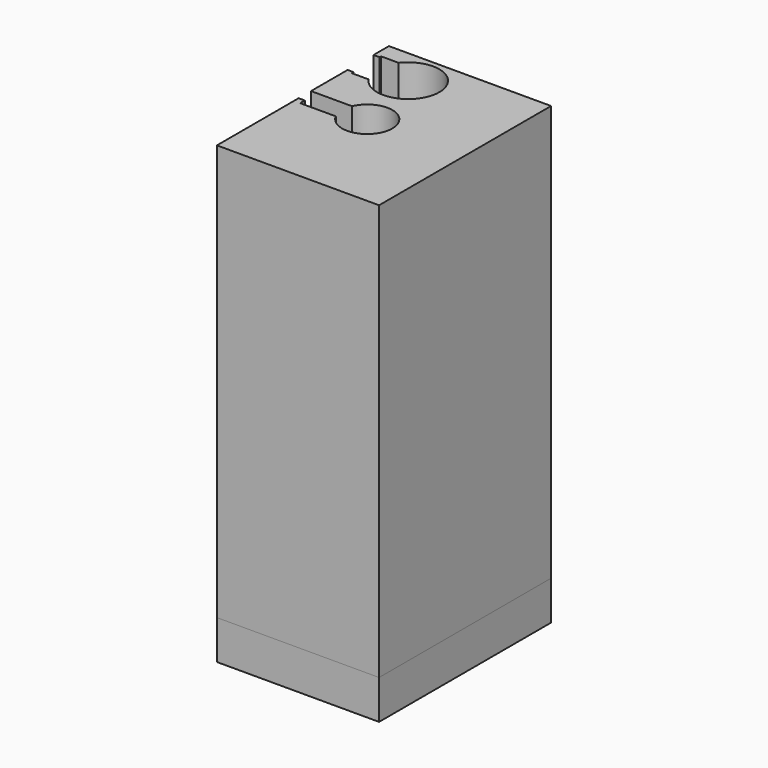
from build123d import *

# Parameters (mm, degrees)
F1_DEPTH = 20.066
F3_T     = -2.54
F5_DEPTH = 213.36


with BuildPart() as f1:
    # F0 (on Top) → F1 (new body)
    with BuildSketch(Plane.XY):
        with BuildLine():
            Line((35.966404, 55.016398), (-47.244001, 55.016398))
            Line((-47.244001, 55.016398), (-47.244001, 45.125062))
            Line((-47.244001, 45.125062), (-32.556663, 45.125062))
            ThreePointArc((-32.556663, 45.125062), (-17.743007, 49.114259), (-8.938304, 36.551006))
            ThreePointArc((-8.938304, 36.551006), (-18.057711, 23.877929), (-32.971396, 28.4988))
            Line((-32.971396, 28.4988), (-47.244001, 28.4988))
            Line((-47.244001, 28.4988), (-47.244001, 5.0292))
            Line((-47.244001, 5.0292), (-21.176632, 5.0292))
            ThreePointArc((-21.176632, 5.0292), (-11.086616, 8.604664), (-4.718561, 0))
            ThreePointArc((-4.718561, 0), (-12.24855, -8.876964), (-22.234767, -2.8956))
            Line((-22.234767, -2.8956), (-47.244001, -2.8956))
            Line((-47.244001, -2.8956), (-47.244001, -55.321198))
            Line((-47.244001, -55.321198), (35.966404, -55.321198))
            Line((35.966404, -55.321198), (35.966404, 55.016398))
        make_face()
    extrude(amount=F1_DEPTH)

    # F3
    f3_openings = [f1.faces().sort_by_distance(p)[0] for p in [
        (-2.561101, -3.741649, 20.066),
    ]]
    offset(amount=F3_T, openings=f3_openings)


with BuildPart() as f5:
    # F4 (on face) → F5 (new body)
    with BuildSketch(Plane.XY.offset(20.066)):
        with BuildLine():
            ThreePointArc((-35.121377, 46.101339), (-17.314044, 51.504017), (-6.474563, 36.378022))
            ThreePointArc((-6.474563, 36.378022), (-17.730761, 21.116929), (-35.635384, 27.364122))
            Line((-35.635384, 27.364122), (-44.100296, 27.364122))
            Line((-44.100296, 27.364122), (-44.100296, 28.4988))
            Line((-44.100296, 28.4988), (-47.244001, 28.4988))
            Line((-47.244001, 28.4988), (-47.244001, 5.0292))
            Line((-47.244001, 5.0292), (-26.198802, 5.0292))
            ThreePointArc((-26.198802, 5.0292), (-11.79399, 12.603987), (-1.497605, 0))
            ThreePointArc((-1.497605, 0), (-11.332444, -12.501146), (-25.79735, -5.885318))
            Line((-25.79735, -5.885318), (-44.100296, -5.885318))
            Line((-44.100296, -5.885318), (-44.100296, -2.8956))
            Line((-44.100296, -2.8956), (-47.244001, -2.8956))
            Line((-47.244001, -2.8956), (-47.244001, -55.321198))
            Line((-47.244001, -55.321198), (35.966404, -55.321198))
            Line((35.966404, -55.321198), (35.966404, 55.016398))
            Line((35.966404, 55.016398), (-47.244001, 55.016398))
            Line((-47.244001, 55.016398), (-47.244001, 45.125062))
            Line((-47.244001, 45.125062), (-44.100296, 45.125062))
            Line((-44.100296, 45.125062), (-44.100296, 46.101339))
            Line((-44.100296, 46.101339), (-35.121377, 46.101339))
        make_face()
    extrude(amount=F5_DEPTH)


solid = Compound([f1.part, f5.part])
